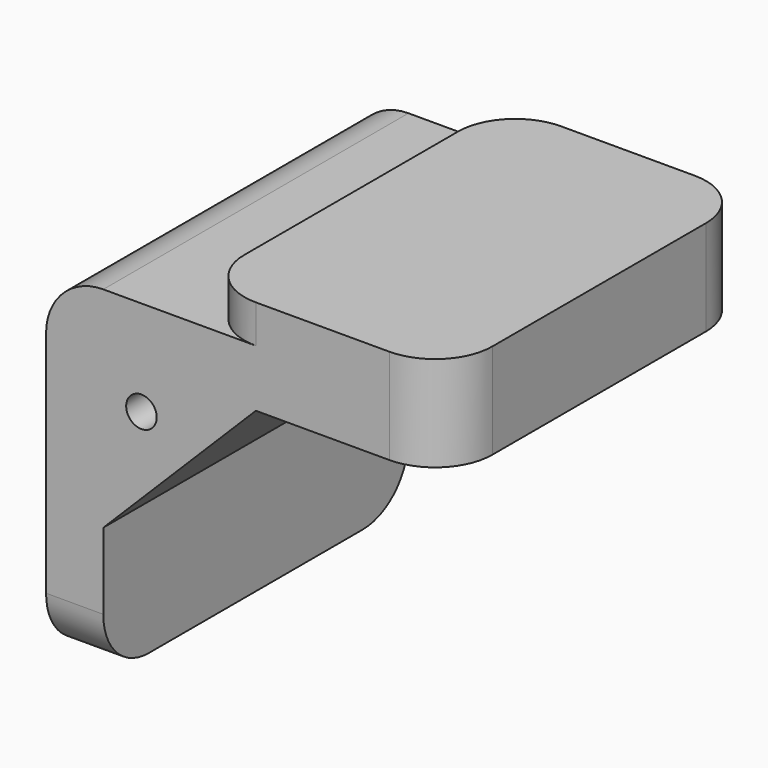
from build123d import *

# Parameters (mm, degrees)
CYLINDER038_R     = 0.8
CYLINDER038_DEPTH = 30
BOX040_W          = 21
BOX040_H          = 20
BOX040_DEPTH      = 18
CHAMFER_SIZE      = 8
BOX041_W          = 13
BOX041_H          = 20
BOX041_DEPTH      = 5
FILLET002033_R    = 3
BOX031_W          = 21
BOX031_H          = 20
BOX031_DEPTH      = 18
FILLET002030_R    = 3
FILLET002031_R    = 3
FILLET002032_R    = 3


with BuildPart() as obj1:
    # Cylinder038 → Cylinder038 (new body)
    with BuildSketch(Plane(origin=(42, 45, 26), x_dir=(1, 0, 0), z_dir=(0, 1, 0))):
        Circle(CYLINDER038_R)
    extrude(amount=CYLINDER038_DEPTH)


with BuildPart() as fusion024:
    # Box040 → Box040 (new body)
    with BuildSketch(Plane(origin=(40, 51.5, 10), x_dir=(1, 0, 0), z_dir=(0, 0, 1))):
        with Locations((10.5, 10)):
            Rectangle(BOX040_W, BOX040_H)
    extrude(amount=BOX040_DEPTH)

    # Chamfer
    chamfer_edges = [fusion024.edges().sort_by_distance(p)[0] for p in [
        (40, 61.5, 28),
    ]]
    chamfer(chamfer_edges, length=CHAMFER_SIZE)

    # Fusion024: union obj1
    add(obj1.part)


with BuildPart() as fillet002033:
    # Box041 → Box041 (new body)
    with BuildSketch(Plane(origin=(45, 51.5, 28), x_dir=(1, 0, 0), z_dir=(0, 0, 1))):
        with Locations((6.5, 10)):
            Rectangle(BOX041_W, BOX041_H)
    extrude(amount=BOX041_DEPTH)

    # Fillet002033
    fillet002033_edges = [fillet002033.edges().sort_by_distance(p)[0] for p in [
        (45, 51.5, 30.5),
        (45, 71.5, 30.5),
        (58, 51.5, 30.5),
        (58, 71.5, 30.5),
    ]]
    fillet(fillet002033_edges, radius=FILLET002033_R)


with BuildPart() as button:
    # Box031 → Box031 (new body)
    with BuildSketch(Plane(origin=(37, 51.5, 13), x_dir=(1, 0, 0), z_dir=(0, 0, 1))):
        with Locations((10.5, 10)):
            Rectangle(BOX031_W, BOX031_H)
    extrude(amount=BOX031_DEPTH)

    # Fillet002030
    fillet002030_edges = [button.edges().sort_by_distance(p)[0] for p in [
        (58, 51.5, 22),
        (58, 71.5, 22),
    ]]
    fillet(fillet002030_edges, radius=FILLET002030_R)

    # Fillet002031
    fillet002031_edges = [button.edges().sort_by_distance(p)[0] for p in [
        (46, 71.5, 13),
        (46, 51.5, 13),
    ]]
    fillet(fillet002031_edges, radius=FILLET002031_R)

    # Fillet002032
    fillet002032_edges = [button.edges().sort_by_distance(p)[0] for p in [
        (37, 61.5, 31),
    ]]
    fillet(fillet002032_edges, radius=FILLET002032_R)

    # Fusion025: union Fillet002033
    add(fillet002033.part)

    # Cut006: cut Fusion024
    add(fusion024.part, mode=Mode.SUBTRACT)


solid = button.part
